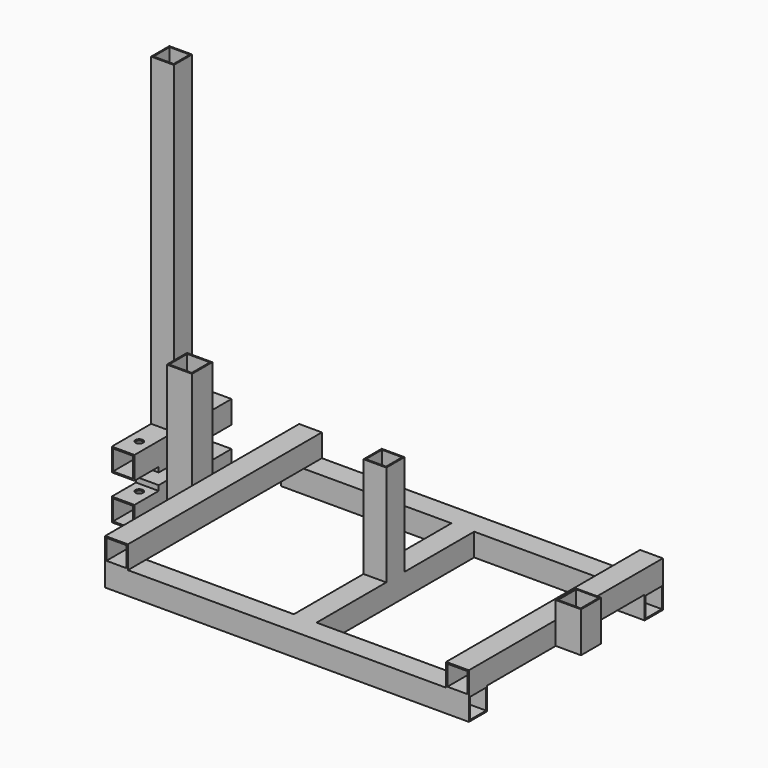
from build123d import *

# Parameters (mm, degrees)
F0_W      = 28.575
F0_H      = 28.575
F0_W_2    = 25.4
F0_H_2    = 25.4
F1_DEPTH  = 152.4
F2_W      = 28.575
F2_H      = 28.575
F2_W_2    = 25.4
F2_H_2    = 25.4
F3_DEPTH  = 406.4
F4_W      = 28.575
F4_H      = 76.2
F5_DEPTH  = 6.35
F7_D      = 9.525
F8_W      = 28.575
F8_H      = 28.575
F8_W_2    = 25.4
F8_H_2    = 25.4
F9_DEPTH  = 152.4
F10_W     = 28.575
F10_H     = 76.2
F11_DEPTH = 6.35
F13_D     = 9.525
F13_2_D   = 9.525
F14_W     = 28.575
F14_H     = 28.575
F14_W_2   = 25.4
F14_H_2   = 25.4
F15_DEPTH = 304.8
F16_W     = 28.575
F16_H     = 28.575
F16_W_2   = 25.4
F16_H_2   = 25.4
F17_DEPTH = 457.2
F18_W     = 28.575
F18_H     = 28.575
F18_W_2   = 25.4
F18_H_2   = 25.4
F19_DEPTH = 304.8
F20_W     = 28.575
F20_H     = 28.575
F20_W_2   = 25.4
F20_H_2   = 25.4
F21_DEPTH = 247.65
F22_W     = 28.575
F22_H     = 28.575
F22_W_2   = 25.4
F22_H_2   = 25.4
F23_DEPTH = 457.2
F24_W     = 28.575
F24_H     = 28.575
F24_W_2   = 25.4
F24_H_2   = 25.4
F25_DEPTH = 127
F27_DEPTH = 152.4
F29_DEPTH = 50.8


with BuildPart() as f1:
    # F0 (on Front) → F1 (new body)
    with BuildSketch(Plane.XZ):
        Rectangle(F0_W, F0_H)
        Rectangle(F0_W_2, F0_H_2, mode=Mode.SUBTRACT)
    extrude(amount=F1_DEPTH)

    # F2 (on face) → F3 (join)
    with BuildSketch(Plane.XY.offset(14.2875)):
        with Locations((0, -76.2)):
            Rectangle(F2_W, F2_H)
        with Locations((0, -76.2)):
            Rectangle(F2_W_2, F2_H_2, mode=Mode.SUBTRACT)
    extrude(amount=F3_DEPTH)

    # F4 (on face) → F5 (join)
    with BuildSketch(Plane(origin=(0, 0, -14.2875), x_dir=(1, 0, 0), z_dir=(0, 0, -1))):
        with Locations((0, 76.2)):
            Rectangle(F4_W, F4_H)
    extrude(amount=F5_DEPTH)

    # F7 (through all)
    with Locations(Plane.XY.offset(14.2875)):
        with Locations((0, -25.4), (0, -126.9274034262)):
            Hole(F7_D / 2)

    # F13 (through all)
    with Locations(Plane(origin=(0, 0, -69.5821813405), x_dir=(1, 0, 0), z_dir=(0, 0, -1))):
        with Locations((0, 127), (0, 25.4)):
            Hole(F13_D / 2)


with BuildPart() as f9:
    # F8 (on Front) → F9 (new body)
    with BuildSketch(Plane.XZ):
        with Locations((0, -55.2946813405)):
            Rectangle(F8_W, F8_H)
        with Locations((0, -55.2946813405)):
            Rectangle(F8_W_2, F8_H_2, mode=Mode.SUBTRACT)
    extrude(amount=F9_DEPTH)

    # F10 (on face) → F11 (join)
    with BuildSketch(Plane.XY.offset(-41.0071813405)):
        with Locations((0, -76.2)):
            Rectangle(F10_W, F10_H)
    extrude(amount=F11_DEPTH)

    # F13#2 (through all)
    with Locations(Plane(origin=(0, 0, -69.5821813405), x_dir=(1, 0, 0), z_dir=(0, 0, -1))):
        with Locations((0, 127), (0, 25.4)):
            Hole(F13_2_D / 2)


with BuildPart() as f15:
    # F14 (on Front) → F15 (new body)
    with BuildSketch(Plane.XZ):
        with Locations((113.6303395033, 0)):
            Rectangle(F14_W, F14_H)
        with Locations((113.6303395033, 0)):
            Rectangle(F14_W_2, F14_H_2, mode=Mode.SUBTRACT)
    extrude(amount=F15_DEPTH)

    # F16 (on face) → F17 (join)
    with BuildSketch(Plane(origin=(99.3428395033, 0, 0), x_dir=(0, -1, 0), z_dir=(-1, 0, 0))):
        with Locations((290.5125, -28.575)):
            Rectangle(F16_W, F16_H)
        with Locations((290.5125, -28.575)):
            Rectangle(F16_W_2, F16_H_2, mode=Mode.SUBTRACT)
    extrude(amount=-F17_DEPTH)

    # F18 (on face) → F19 (join)
    with BuildSketch(Plane.XZ.offset(304.8)):
        with Locations((542.2553395033, 0)):
            Rectangle(F18_W, F18_H)
        with Locations((542.2553395033, 0)):
            Rectangle(F18_W_2, F18_H_2, mode=Mode.SUBTRACT)
    extrude(amount=-F19_DEPTH)

    # F20 (on face) → F21 (join)
    with BuildSketch(Plane(origin=(0, -276.225, 0), x_dir=(-1, 0, 0), z_dir=(0, 1, 0))):
        with Locations((-327.9428395033, -28.575)):
            Rectangle(F20_W, F20_H)
        with Locations((-327.9428395033, -28.575)):
            Rectangle(F20_W_2, F20_H_2, mode=Mode.SUBTRACT)
    extrude(amount=F21_DEPTH)

    # F22 (on face) → F23 (join)
    with BuildSketch(Plane.YZ.offset(556.5428395033)):
        with Locations((-14.2875, -28.575)):
            Rectangle(F22_W, F22_H)
        with Locations((-14.2875, -28.575)):
            Rectangle(F22_W_2, F22_H_2, mode=Mode.SUBTRACT)
    extrude(amount=-F23_DEPTH)

    # F24 (on face) → F25 (join)
    with BuildSketch(Plane.XY.offset(-14.2875)):
        with Locations((327.9428395033, -152.4)):
            Rectangle(F24_W, F24_H)
        with Locations((327.9428395033, -152.4)):
            Rectangle(F24_W_2, F24_H_2, mode=Mode.SUBTRACT)
    extrude(amount=F25_DEPTH)

    # F26 (on face) → F27 (join)
    with BuildSketch(Plane(origin=(0, 0, -14.2875), x_dir=(1, 0, 0), z_dir=(0, 0, -1))):
        Polygon((99.3428395033, 136.525), (99.3428395033, 152.4), (99.3428395033, 168.275), (67.5928395033, 168.275), (67.5928395033, 136.525), align=None)
        Polygon((97.7553395033, 166.6875), (97.7553395033, 152.4), (97.7553395033, 138.1125), (69.1803395033, 138.1125), (69.1803395033, 166.6875), align=None, mode=Mode.SUBTRACT)
    extrude(amount=-F27_DEPTH)

    # F28 (on face) → F29 (join)
    with BuildSketch(Plane(origin=(0, 0, -14.2875), x_dir=(1, 0, 0), z_dir=(0, 0, -1))):
        Polygon((556.5428395033, 168.275), (556.5428395033, 152.4), (556.5428395033, 136.525), (588.2928395033, 136.525), (588.2928395033, 168.275), align=None)
        Polygon((558.1303395033, 138.1125), (558.1303395033, 152.4), (558.1303395033, 166.6875), (586.7053395033, 166.6875), (586.7053395033, 138.1125), align=None, mode=Mode.SUBTRACT)
    extrude(amount=-F29_DEPTH)


solid = Compound([f1.part, f9.part, f15.part])
